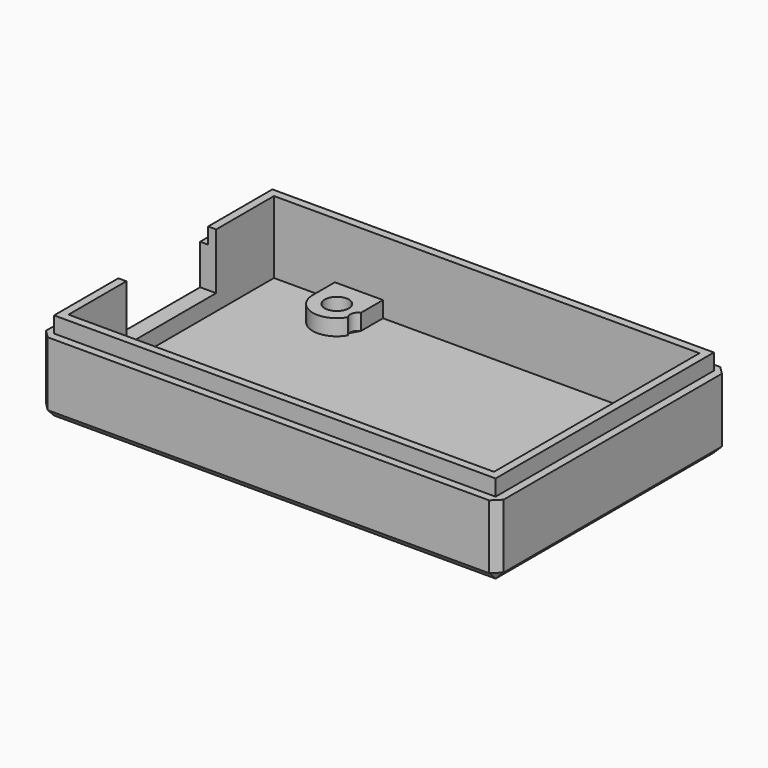
from build123d import *

# Parameters (mm, degrees)
EXTRUDE003_DEPTH = 2
SKETCH001_W      = 57.0675
SKETCH001_H      = 36.03
SKETCH001_R      = 1.5
EXTRUDE001_DEPTH = 2
SKETCH006_W      = 57.0675
SKETCH006_H      = 36.03
EXTRUDE006_DEPTH = 2
EXTRUDE002_DEPTH = 5
CHAMFER001_SIZE  = 1


with BuildPart() as obj1:
    # Sketch003 → Extrude003 (new body)
    with BuildSketch(Plane.XY.offset(9)):
        Polygon((-11.59465, 29.4474), (43.47285, 29.4474), (43.47285, -4.5826), (-11.59465, -4.5826), (-11.59465, 5.4324), (-10.59465, 5.4324), (-10.59465, -3.5826), (42.47285, -3.5826), (42.47285, 28.4474), (-10.59465, 28.4474), (-10.59465, 19.4324), (-11.59465, 19.4324), align=None)
    extrude(amount=EXTRUDE003_DEPTH)


with BuildPart() as obj2:
    # Sketch001 → Extrude001 (new body)
    with BuildSketch(Plane.XY.offset(2)):
        with Locations((15.9391, 12.4324)):
            Rectangle(SKETCH001_W, SKETCH001_H)
        with Locations((0.00035, 24.9999)):
            Circle(SKETCH001_R, mode=Mode.SUBTRACT)
        with Locations((39.00035, 24.9999)):
            Circle(SKETCH001_R, mode=Mode.SUBTRACT)
        with Locations((39.00035, -0.0001)):
            Circle(SKETCH001_R, mode=Mode.SUBTRACT)
        Circle(SKETCH001_R, mode=Mode.SUBTRACT)
        with BuildLine():
            Line((-10.59465, 28.4474), (-2.9993, 28.4474))
            Line((-2.9993, 28.4474), (-2.9993, 24.9999))
            ThreePointArc((-2.9993, 24.9999), (-0.777953, 22.102712), (2.5965, 23.495965))
            ThreePointArc((3, 24.9999), (2.417325, 24.350133), (2.5965, 23.495965))
            Line((3, 24.9999), (3, 28.4474))
            Line((3, 28.4474), (36.00035, 28.4474))
            Line((36.00035, 24.9999), (36.00035, 28.4474))
            ThreePointArc((36.00035, 24.9999), (36.87903, 22.87858), (39.00035, 21.9999))
            Line((42.47285, 21.9999), (39.00035, 21.9999))
            Line((42.47285, 21.9999), (42.47285, 2.9999))
            Line((42.47285, 2.9999), (39.00035, 2.9999))
            ThreePointArc((39.00035, 2.9999), (36.87903, 2.12122), (36.00035, -0.0001))
            Line((36.00035, -0.0001), (36.00035, -3.5826))
            Line((36.00035, -3.5826), (3, -3.5826))
            Line((3, 0), (3, -3.5826))
            ThreePointArc((3, 0), (0, 3), (-3, 0))
            Line((-3, -3.5826), (-3, 0))
            Line((-3, -3.5826), (-10.59465, -3.5826))
            Line((-10.59465, -3.5826), (-10.59465, 28.4474))
        make_face(mode=Mode.SUBTRACT)
    extrude(amount=EXTRUDE001_DEPTH)


with BuildPart() as base:
    # Sketch006 → Extrude006 (new body)
    with BuildSketch(Plane.XY):
        with Locations((15.9391, 12.4324)):
            Rectangle(SKETCH006_W, SKETCH006_H)
        Polygon((41.996992, 24.857996), (40.621563, 27.524116), (37.624921, 27.66602), (36.003708, 25.141804), (37.379137, 22.475684), (40.375779, 22.33378), align=None, mode=Mode.SUBTRACT)
        Polygon((3.00035, 24.9999), (1.50035, 27.597976), (-1.49965, 27.597976), (-2.99965, 24.9999), (-1.49965, 22.401824), (1.50035, 22.401824), align=None, mode=Mode.SUBTRACT)
        Polygon((3, 0), (1.5, 2.598076), (-1.5, 2.598076), (-3, 0), (-1.5, -2.598076), (1.5, -2.598076), align=None, mode=Mode.SUBTRACT)
        Polygon((36.00035, 0), (37.500263, -2.598126), (40.500263, -2.598226), (42.00035, -0.0002), (40.500437, 2.597926), (37.500437, 2.598026), align=None, mode=Mode.SUBTRACT)
    extrude(amount=EXTRUDE006_DEPTH)


with BuildPart() as fusion002:
    # Sketch002 → Extrude002 (new body)
    with BuildSketch(Plane.XY.offset(4)):
        Polygon((-10.59465, 28.4474), (42.47285, 28.4474), (42.47285, -3.5826), (-10.59465, -3.5826), (-10.59465, 5.4324), (-12.59465, 5.4324), (-12.59465, -5.5826), (44.47285, -5.5826), (44.47285, 30.4474), (-12.59465, 30.4474), (-12.59465, 19.4324), (-10.59465, 19.4324), align=None)
    extrude(amount=EXTRUDE002_DEPTH)

    # Fusion: union obj2, BASE
    add(obj2.part)
    add(base.part)

    # Chamfer001
    chamfer001_edges = [fusion002.edges().sort_by_distance(p)[0] for p in [
        (15.9391, 30.4474, 0),
        (44.47285, 12.4324, 0),
        (15.9391, -5.5826, 0),
        (-12.59465, 12.4324, 0),
        (-12.59465, 30.4474, 4.5),
        (-12.59465, -5.5826, 4.5),
        (44.47285, -5.5826, 4.5),
        (44.47285, 30.4474, 4.5),
    ]]
    chamfer(chamfer001_edges, length=CHAMFER001_SIZE)

    # Fusion002: union obj1
    add(obj1.part)


solid = fusion002.part
